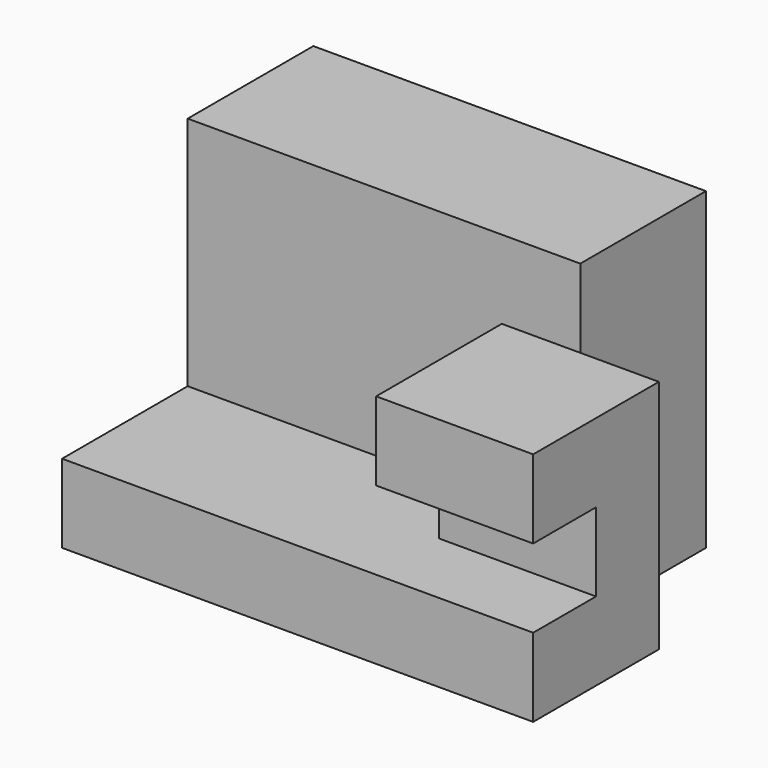
from build123d import *

# Parameters (mm, degrees)
F0_W     = 60
F0_H     = 40
F1_DEPTH = 40
F2_W     = 10
F2_H     = 20
F3_DEPTH = 40
F4_W     = 40
F4_H     = 20
F5_DEPTH = 30
F7_DEPTH = 10
F8_W     = 10
F8_H     = 10
F9_DEPTH = 20


with BuildPart() as f1:
    # F0 (on Front) → F1 (new body)
    with BuildSketch(Plane.XZ):
        with Locations((30, 20)):
            Rectangle(F0_W, F0_H)
    extrude(amount=F1_DEPTH)

    # F2 (on face) → F3 (cut)
    with BuildSketch(Plane.XY.offset(40)):
        with Locations((55, -10)):
            Rectangle(F2_W, F2_H)
    extrude(amount=-F3_DEPTH, mode=Mode.SUBTRACT)

    # F4 (on face) → F5 (cut)
    with BuildSketch(Plane.XY.offset(40)):
        with Locations((20, -30)):
            Rectangle(F4_W, F4_H)
    extrude(amount=-F5_DEPTH, mode=Mode.SUBTRACT)

    # F6 (on face) → F7 (cut)
    with BuildSketch(Plane.XY.offset(40)):
        Polygon((40, -20), (40, -40), (60, -40), (60, -20), (50, -20), align=None)
    extrude(amount=-F7_DEPTH, mode=Mode.SUBTRACT)

    # F8 (on face) → F9 (cut)
    with BuildSketch(Plane.YZ.offset(60)):
        with Locations((-35, 15)):
            Rectangle(F8_W, F8_H)
    extrude(amount=-F9_DEPTH, mode=Mode.SUBTRACT)


solid = f1.part
